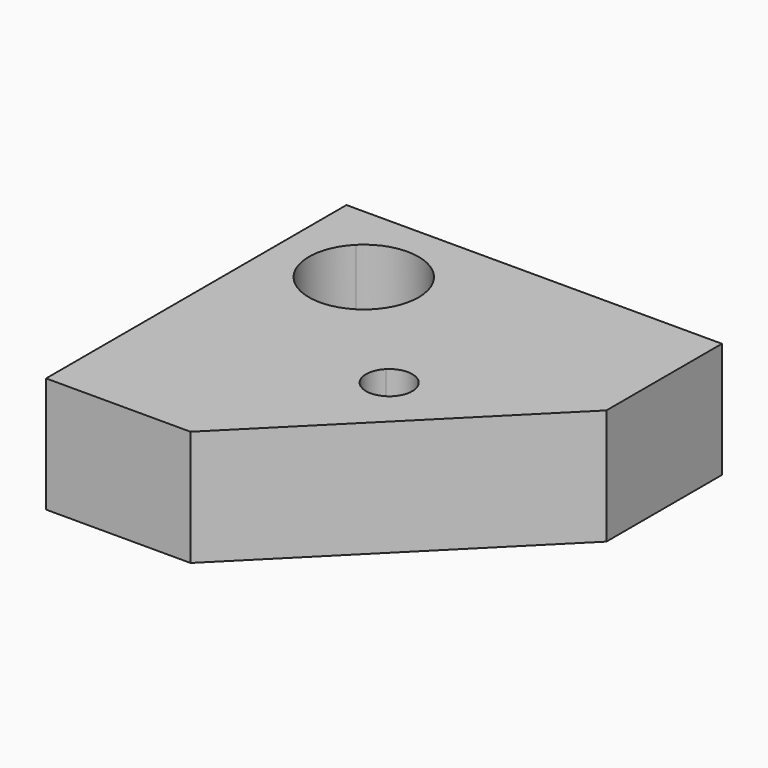
from build123d import *

# Parameters (mm, degrees)
F1_DEPTH = 20


with BuildPart() as f1:
    # F0 (on Top) → F1 (new body)
    with BuildSketch(Plane.XY):
        with BuildLine():
            ThreePointArc((8.282486, -8.282486), (18.635493, -6.223144), (24.5, -15))
            ThreePointArc((24.5, -15), (23.776856, -18.635493), (21.717514, -21.717514))
            Line((21.717514, -21.717514), (34.171573, -34.171573))
            ThreePointArc((34.171573, -34.171573), (38.530734, -33.304482), (41, -37))
            ThreePointArc((41, -37), (40.695518, -38.530734), (39.828427, -39.828427))
            Line((39.828427, -39.828427), (45, -45))
            Line((45, -45), (65, -25))
            Line((65, -25), (65, 0))
            Line((65, 0), (0, 0))
            Line((0, 0), (8.282486, -8.282486))
        make_face()
        with BuildLine():
            ThreePointArc((21.717514, -21.717514), (8.282486, -21.717514), (8.282486, -8.282486))
            Line((8.282486, -8.282486), (0, 0))
            Line((0, 0), (0, -65))
            Line((0, -65), (25, -65))
            Line((25, -65), (45, -45))
            Line((45, -45), (39.828427, -39.828427))
            ThreePointArc((39.828427, -39.828427), (34.171573, -39.828427), (34.171573, -34.171573))
            Line((34.171573, -34.171573), (21.717514, -21.717514))
        make_face()
    extrude(amount=F1_DEPTH)


solid = f1.part
